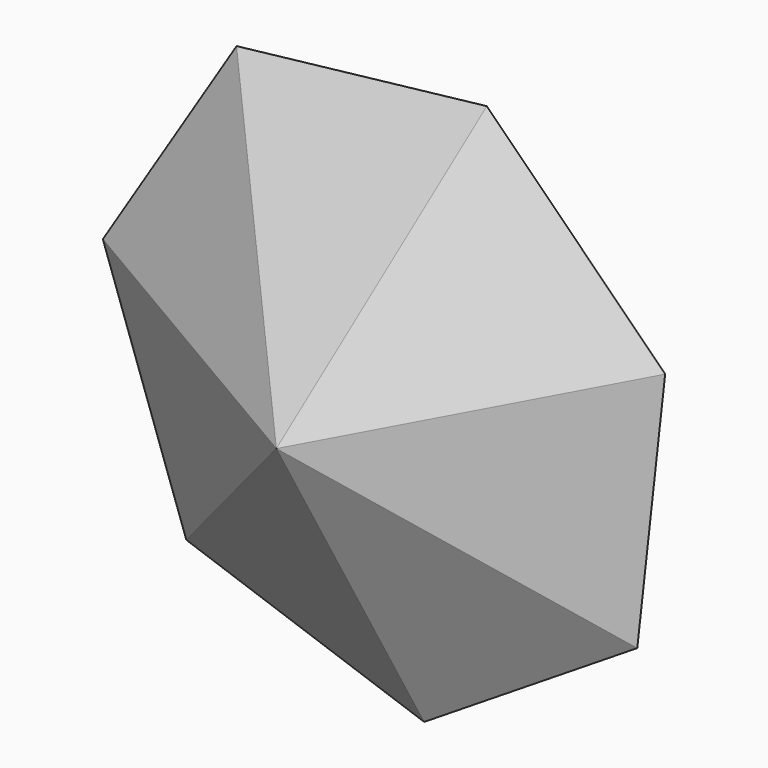
from build123d import *


with BuildPart() as f3:
    # F0 (on Front) → F3 section 0
    with BuildSketch(Plane.XZ, mode=Mode.PRIVATE) as f3_s0:
        Polygon((-26.928486, 42.739754), (-50.204922, 5.594263), (-35.676027, -35.763822), (5.717643, -50.19102), (42.805812, -26.823356), (47.660331, 16.742842), (16.625649, 47.701339), align=None)
    loft([f3_s0.sketch, Vertex(0, -25, 0)])


solid = f3.part
